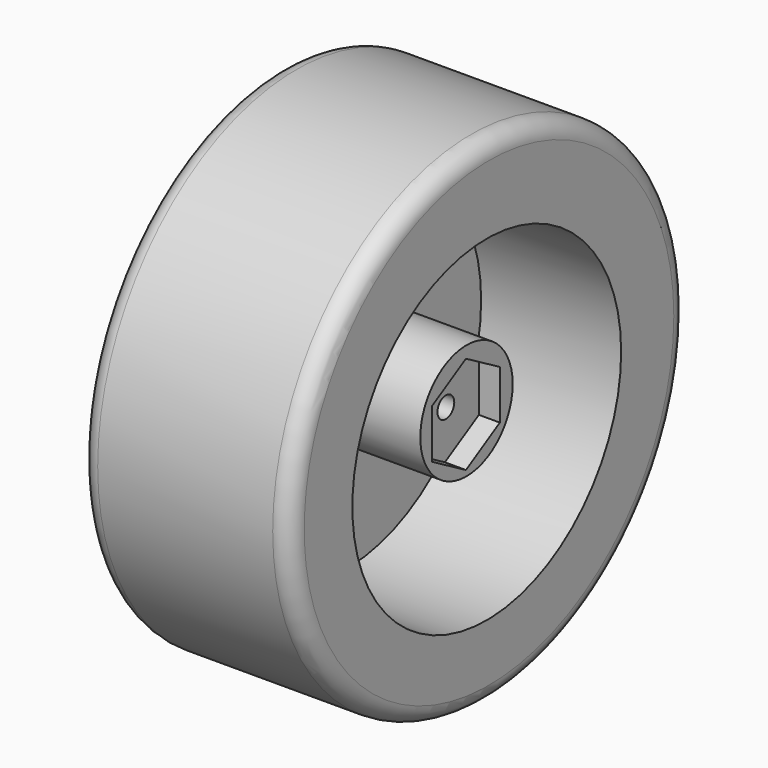
from build123d import *

# Parameters (mm, degrees)
SKETCH_R        = 35.5
PAD_DEPTH       = 30
FILLET_R        = 2.5
FILLET001_R     = 2.5
SKETCH001_R     = 24
POCKET_DEPTH    = 20
SKETCH002_R     = 8.25
PAD001_DEPTH    = 16
POCKET001_DEPTH = 3
SKETCH004_R     = 1.5
POCKET002_DEPTH = 25


with BuildPart() as part:
    # Sketch → Pad (new body)
    with BuildSketch(Plane.YZ):
        with Locations((-2.086276, 2.086154)):
            Circle(SKETCH_R)
    extrude(amount=PAD_DEPTH)

    # Fillet
    fillet_edges = [part.edges().sort_by_distance(p)[0] for p in [
        (30, -37.586276, 2.086154),
    ]]
    fillet(fillet_edges, radius=FILLET_R)

    # Fillet001
    fillet001_edges = [part.edges().sort_by_distance(p)[0] for p in [
        (0, -37.586276, 2.086154),
    ]]
    fillet(fillet001_edges, radius=FILLET001_R)

    # Sketch001 (on Face3 of Pad) → Pocket (cut)
    with BuildSketch(Plane.YZ.offset(30)):
        with Locations((-2.490074, 1.413427)):
            Circle(SKETCH001_R)
    extrude(amount=-POCKET_DEPTH, mode=Mode.SUBTRACT)

    # Sketch002 (on Face7 of Pocket) → Pad001 (join)
    with BuildSketch(Plane.YZ.offset(10)):
        with Locations((-1.106776, 1.902246)):
            Circle(SKETCH002_R)
    extrude(amount=PAD001_DEPTH)

    # Sketch003 (on Face9 of Pad001) → Pocket001 (cut)
    with BuildSketch(Plane.YZ.offset(26)):
        Polygon((4.852949, 4.988847), (-1.209229, 8.488847), (-7.271407, 4.988847), (-7.271407, -2.011153), (-1.209229, -5.511153), (4.852949, -2.011153), align=None)
    extrude(amount=-POCKET001_DEPTH, mode=Mode.SUBTRACT)

    # Sketch004 (on Face16 of Pocket001) → Pocket002 (cut)
    with BuildSketch(Plane.YZ.offset(23)):
        with Locations((-1.040093, 1.343548)):
            Circle(SKETCH004_R)
    extrude(amount=-POCKET002_DEPTH, mode=Mode.SUBTRACT)


solid = part.part
